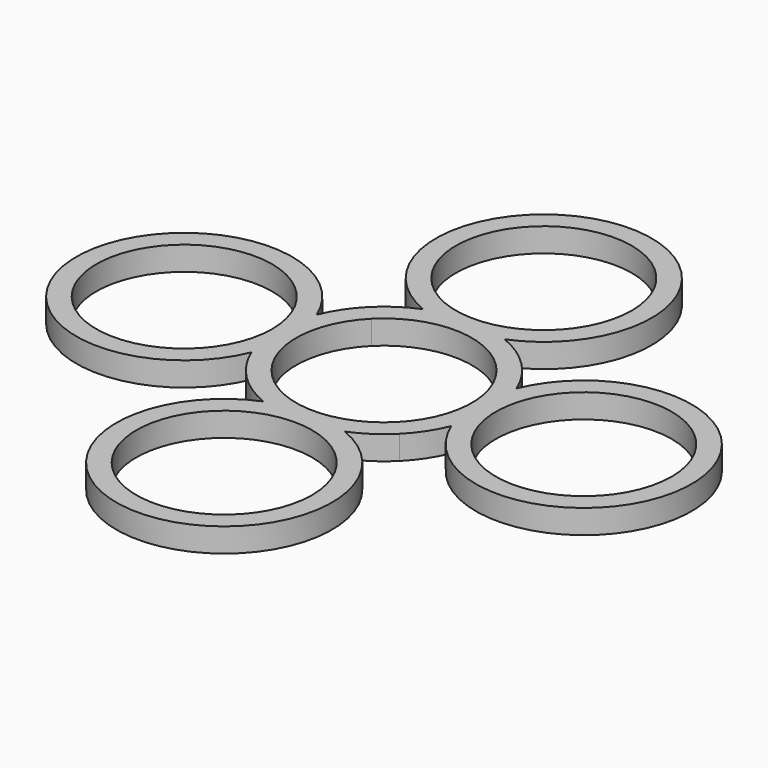
from build123d import *

# Parameters (mm, degrees)
F0_R     = 11
F1_DEPTH = 3


with BuildPart() as f1:
    # F0 (on Top) → F1 (new body)
    with BuildSketch(Plane.XY):
        with BuildLine():
            ThreePointArc((5.09902, 12.5), (0, 38.5), (-5.09902, 12.5))
            ThreePointArc((-5.09902, 12.5), (-7.469962, 11.244984), (-9.545942, 9.545942))
            ThreePointArc((-9.545942, 9.545942), (-11.244984, 7.469962), (-12.5, 5.09902))
            ThreePointArc((-12.5, 5.09902), (-38.5, 0), (-12.5, -5.09902))
            ThreePointArc((-12.5, -5.09902), (-11.244984, -7.469962), (-9.545942, -9.545942))
            ThreePointArc((-9.545942, -9.545942), (-7.469962, -11.244984), (-5.09902, -12.5))
            ThreePointArc((-5.09902, -12.5), (0, -38.5), (5.09902, -12.5))
            ThreePointArc((5.09902, -12.5), (7.469962, -11.244984), (9.545942, -9.545942))
            ThreePointArc((9.545942, -9.545942), (11.244984, -7.469962), (12.5, -5.09902))
            ThreePointArc((12.5, -5.09902), (38.5, 0), (12.5, 5.09902))
            ThreePointArc((12.5, 5.09902), (11.244984, 7.469962), (9.545942, 9.545942))
            ThreePointArc((9.545942, 9.545942), (7.469962, 11.244984), (5.09902, 12.5))
        make_face()
        with Locations((0, -25)):
            Circle(F0_R, mode=Mode.SUBTRACT)
        with Locations((-25, 0)):
            Circle(F0_R, mode=Mode.SUBTRACT)
        with BuildLine():
            ThreePointArc((-7.778175, 7.778175), (0, 11), (7.778175, 7.778175))
            ThreePointArc((7.778175, 7.778175), (11, 0), (7.778175, -7.778175))
            ThreePointArc((7.778175, -7.778175), (0, -11), (-7.778175, -7.778175))
            ThreePointArc((-7.778175, -7.778175), (-11, 0), (-7.778175, 7.778175))
        make_face(mode=Mode.SUBTRACT)
        with Locations((25, 0)):
            Circle(F0_R, mode=Mode.SUBTRACT)
        with Locations((0, 25)):
            Circle(F0_R, mode=Mode.SUBTRACT)
    extrude(amount=F1_DEPTH)


solid = f1.part
